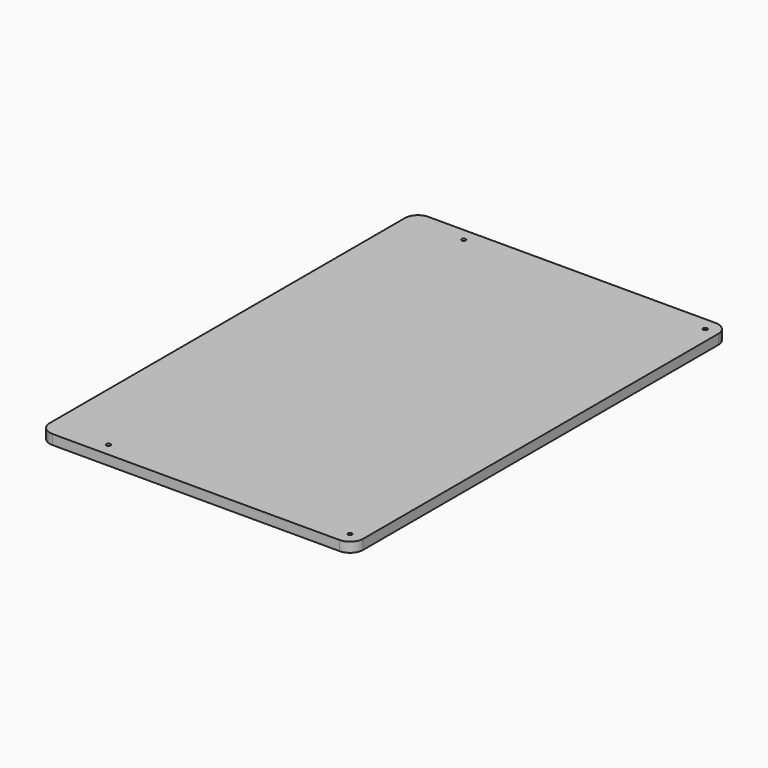
from build123d import *

# Parameters (mm, degrees)
F0_W     = 609.6
F0_H     = 914.4
F1_DEPTH = 19.05
F2_R     = 25.4
F3_R     = 3.96875
F4_DEPTH = 19.051


with BuildPart() as f1:
    # F0 (on Top) → F1 (new body)
    with BuildSketch(Plane.XY):
        Rectangle(F0_W, F0_H)
    extrude(amount=-F1_DEPTH)

    # F2
    f2_edges = [f1.edges().sort_by_distance(p)[0] for p in [
        (-304.8, -457.2, -9.525),
        (-304.8, 457.2, -9.525),
        (304.8, 457.2, -9.525),
        (304.8, -457.2, -9.525),
    ]]
    fillet(f2_edges, radius=F2_R)

    # F3 (on face) → F4 (cut, through all)
    with BuildSketch(Plane.XY):
        with Locations((-190.5, -431.8)):
            Circle(F3_R)
        with Locations((279.4, -431.8)):
            Circle(F3_R)
        with Locations((279.4, 431.8)):
            Circle(F3_R)
        with Locations((-190.5, 431.8)):
            Circle(F3_R)
    extrude(amount=-F4_DEPTH, mode=Mode.SUBTRACT)


solid = f1.part
